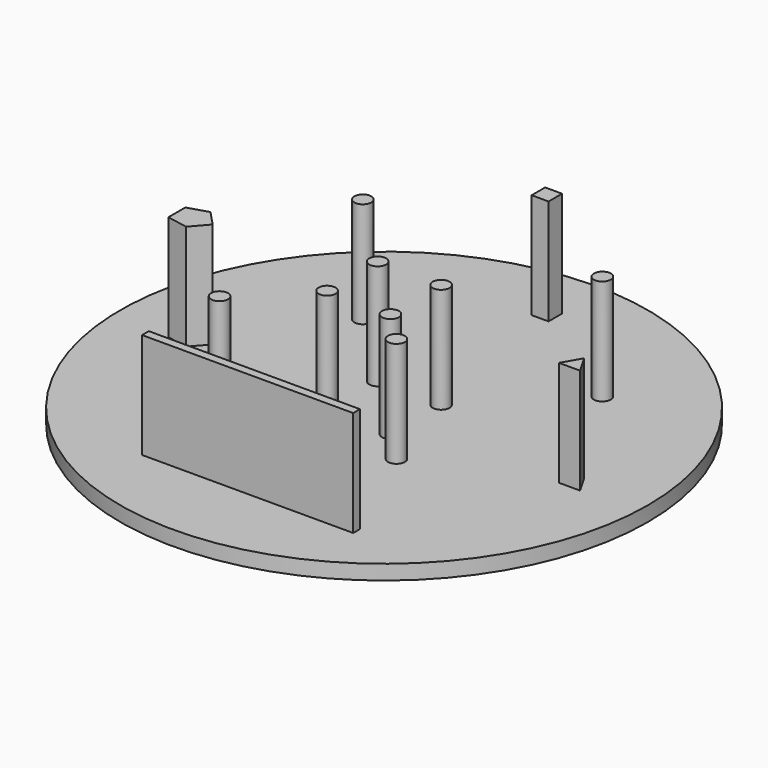
from build123d import *

# Parameters (mm, degrees)
F0_R     = 12.5
F1_DEPTH = 0.7
F2_R     = 0.4
F2_W     = 0.8
F2_H     = 0.8
F2_W_2   = 10
F2_H_2   = 0.4
F3_DEPTH = 5.7


with BuildPart() as f1:
    # F0 (on Top) → F1 (new body)
    with BuildSketch(Plane.XY):
        Circle(F0_R)
    extrude(amount=F1_DEPTH)

    # F2 (on Top) → F3 (join)
    with BuildSketch(Plane.XY):
        with Locations((-1.5, 1.5)):
            Circle(F2_R)
        with Locations((-1.5, -1.5)):
            Circle(F2_R)
        with Locations((1.5, -1.5)):
            Circle(F2_R)
        with Locations((1.5, 1.5)):
            Circle(F2_R)
        with Locations((2.914214, -2.914214)):
            Circle(F2_R)
        with Locations((5.742641, 5.742641)):
            Circle(F2_R)
        with Locations((-5.035534, 5.035534)):
            Circle(F2_R)
        with Locations((-4.328427, -4.328427)):
            Circle(F2_R)
        with Locations((0.031655, 9.595732)):
            Rectangle(F2_W, F2_H)
        Polygon((-8.801591, 0.723574), (-9.757094, 0.428594), (-9.757094, -0.571406), (-8.774174, -0.755441), (-8.114989, -0.00346), align=None)
        Polygon((9.806349, -0.655786), (9.306349, 0.21024), (8.806349, -0.655786), align=None)
        with Locations((0.377344, -8.348521)):
            Rectangle(F2_W_2, F2_H_2)
    extrude(amount=F3_DEPTH)


solid = f1.part
